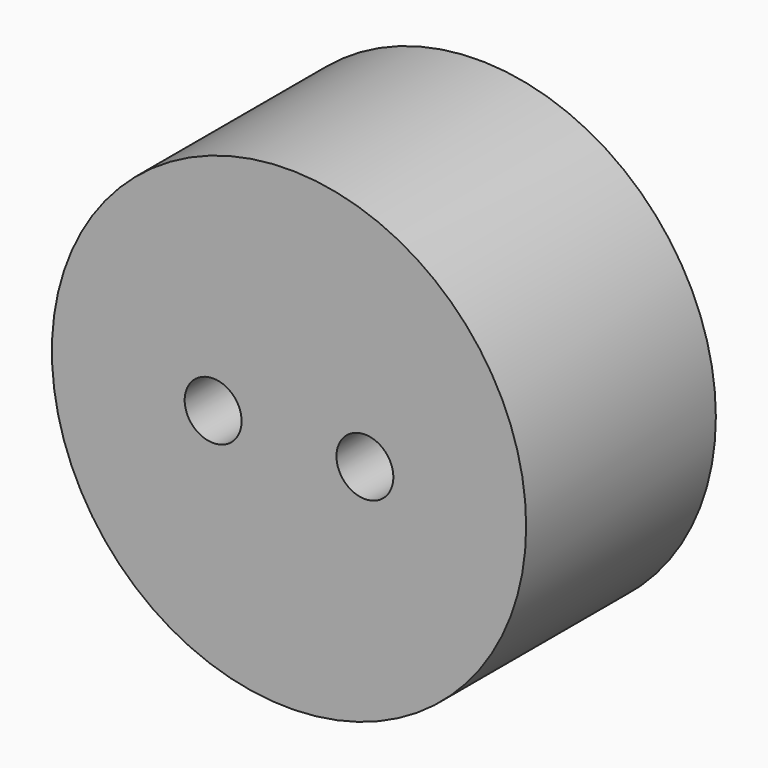
from build123d import *

# Parameters (mm, degrees)
CYLINDER011_R          = 3
CYLINDER011_DEPTH      = 15
CYLINDER011_ROLL_ANGLE = 90
CYLINDER010_R          = 3
CYLINDER010_DEPTH      = 15
CYLINDER010_ROLL_ANGLE = 90
CYLINDER009_R          = 25
CYLINDER009_DEPTH      = 25
CYLINDER009_ROLL_ANGLE = 90


with BuildPart() as cylinder011:
    # Cylinder011 → Cylinder011 (new body)
    with BuildSketch(Plane.XY):
        Circle(CYLINDER011_R)
    extrude(amount=CYLINDER011_DEPTH)


with BuildPart() as cylinder011_1:
    # Cylinder011 roll: moved
    add(cylinder011.part.rotate(Axis((0, 0, 0), (1, 0, 0)), CYLINDER011_ROLL_ANGLE))


with BuildPart() as cylinder011_2:
    # Cylinder011 placement: moved
    add(cylinder011_1.part.moved(Location((258, 9, 130))))


with BuildPart() as cylinder010:
    # Cylinder010 → Cylinder010 (new body)
    with BuildSketch(Plane.XY):
        Circle(CYLINDER010_R)
    extrude(amount=CYLINDER010_DEPTH)


with BuildPart() as cylinder010_1:
    # Cylinder010 roll: moved
    add(cylinder010.part.rotate(Axis((0, 0, 0), (1, 0, 0)), CYLINDER010_ROLL_ANGLE))


with BuildPart() as cylinder010_2:
    # Cylinder010 placement: moved
    add(cylinder010_1.part.moved(Location((242, 9, 130))))


with BuildPart() as cut005:
    # Cylinder009 → Cylinder009 (new body)
    with BuildSketch(Plane.XY):
        Circle(CYLINDER009_R)
    extrude(amount=CYLINDER009_DEPTH)


with BuildPart() as cut005_1:
    # Cylinder009 roll: moved
    add(cut005.part.rotate(Axis((0, 0, 0), (1, 0, 0)), CYLINDER009_ROLL_ANGLE))


with BuildPart() as cut005_2:
    # Cylinder009 placement: moved
    add(cut005_1.part.moved(Location((250, 20, 130))))

    # Cut004: cut Cylinder010
    add(cylinder010_2.part, mode=Mode.SUBTRACT)

    # Cut005: cut Cylinder011
    add(cylinder011_2.part, mode=Mode.SUBTRACT)


with BuildPart() as cut005_3:
    # Cut005 placement: moved
    add(cut005_2.part.moved(Location((75, 0, 15))))


solid = cut005_3.part
